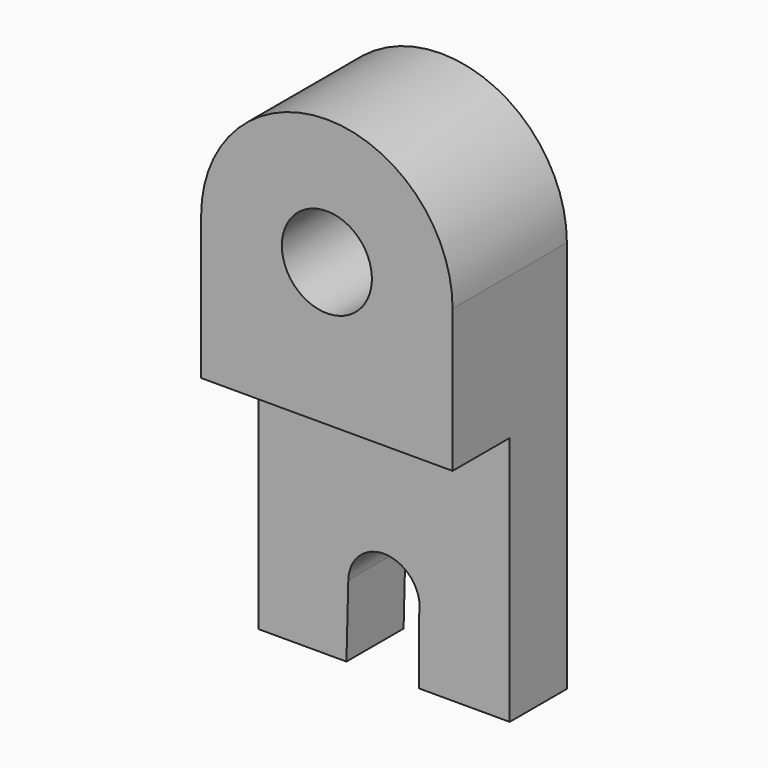
from build123d import *

# Parameters (mm, degrees)
F1_DEPTH = 12.7
F3_DEPTH = 12.7
F5_D     = 16.002


with BuildPart() as f1:
    # F0 (on Front) → F1 (new body)
    with BuildSketch(Plane.XZ):
        with BuildLine():
            Line((0, 69.85), (0, 0))
            Line((0, 0), (15.67386, 0))
            Line((15.67386, 0), (16.004092, 12.86297))
            ThreePointArc((16.004092, 12.86297), (21.769188, 19.023198), (28.563172, 14.020547))
            ThreePointArc((28.563172, 14.020547), (28.702, 12.7), (28.563172, 11.379453))
            Line((28.563172, 11.379453), (28.563172, 0))
            Line((28.563172, 0), (44.704, 0))
            Line((44.704, 0), (44.704, 69.85))
            ThreePointArc((44.704, 69.85), (22.352, 92.202), (0, 69.85))
        make_face()
    extrude(amount=F1_DEPTH)

    # F2 (on face) → F3 (join)
    with BuildSketch(Plane.XZ.offset(12.7)):
        with BuildLine():
            Line((0, 69.85), (0, 44.45))
            Line((0, 44.45), (2.100821, 44.45))
            Line((2.100821, 44.45), (44.704, 44.45))
            Line((44.704, 44.45), (44.704, 69.85))
            ThreePointArc((44.704, 69.85), (22.352, 92.202), (0, 69.85))
        make_face()
    extrude(amount=F3_DEPTH)

    # F5 (through all)
    with Locations(Plane.XZ.offset(25.4)):
        with Locations((22.352, 69.85)):
            Hole(F5_D / 2)


solid = f1.part
